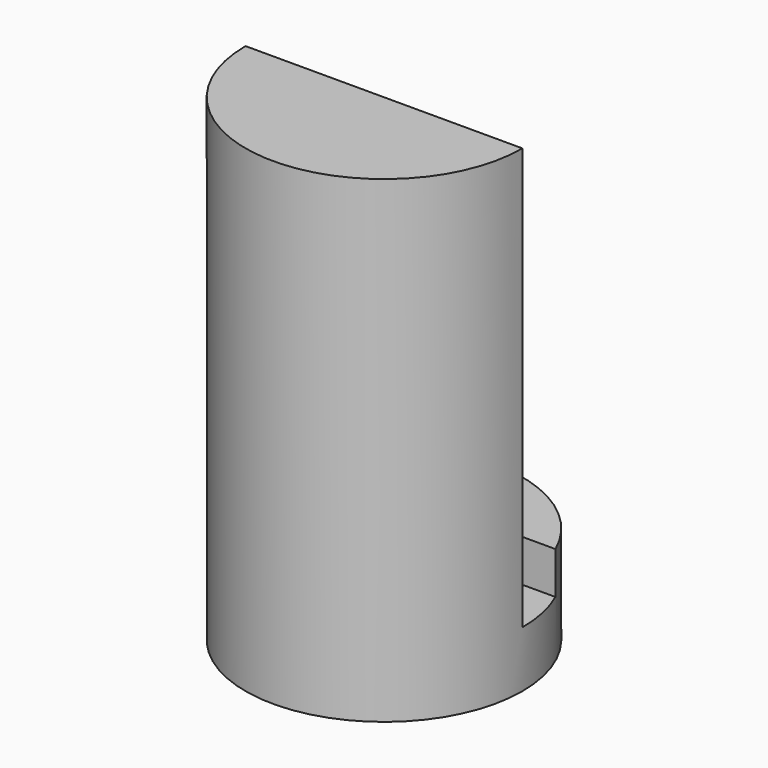
from build123d import *

# Parameters (mm, degrees)
F0_R     = 9.85
F1_DEPTH = 34
F3_DEPTH = 27
F5_DEPTH = 3


with BuildPart() as f1:
    # F0 (on Top) → F1 (new body)
    with BuildSketch(Plane.XY):
        Circle(F0_R)
    extrude(amount=F1_DEPTH)

    # F2 (on face) → F3 (cut)
    with BuildSketch(Plane.XY.offset(34)):
        with BuildLine():
            Line((-9.85, 0), (9.85, 0))
            ThreePointArc((9.85, 0), (0, 9.85), (-9.85, 0))
        make_face()
    extrude(amount=-F3_DEPTH, mode=Mode.SUBTRACT)

    # F4 (on face) → F5 (cut)
    with BuildSketch(Plane.XY.offset(7)):
        with BuildLine():
            ThreePointArc((-9.00125, 4), (-9.635476, 2.044528), (-9.85, 0))
            Line((-9.85, 0), (9.85, 0))
            ThreePointArc((9.85, 0), (9.635476, 2.044528), (9.00125, 4))
            Line((9.00125, 4), (4.553003, 4))
            Line((4.553003, 4), (4.553003, 5))
            Line((4.553003, 5), (-4.553003, 5))
            Line((-4.553003, 5), (-4.553003, 4))
            Line((-4.553003, 4), (-9.00125, 4))
        make_face()
    extrude(amount=-F5_DEPTH, mode=Mode.SUBTRACT)


solid = f1.part
